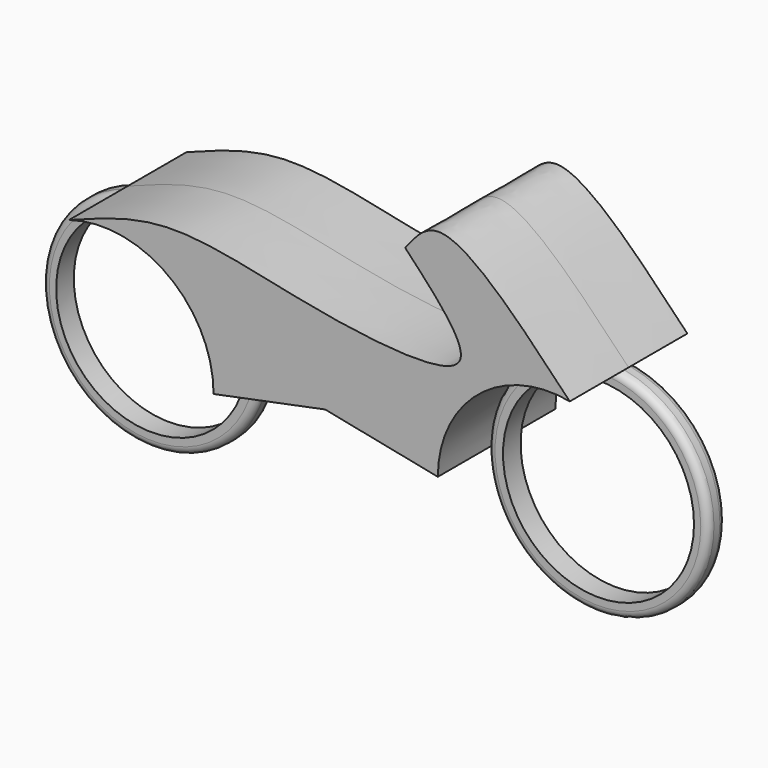
from build123d import *

# Parameters (mm, degrees)
F0_R     = 19.05
F2_DEPTH = 1.905
F1_R     = 16.51
F3_DEPTH = 2.54
F4_R     = 1.27
F4_2_R   = 1.27
F6_DEPTH = 12.7


with BuildPart() as f2:
    # F0 (on Front) → F2 (new body, symmetric)
    with BuildSketch(Plane.XZ):
        with Locations((-38.5182765663, 0)):
            Circle(F0_R)
    extrude(amount=F2_DEPTH, both=True)


with BuildPart() as f2b:
    # F0 (on Front) → F2, piece 2 (new body, symmetric)
    with BuildSketch(Plane.XZ):
        with Locations((38.5182765663, 0)):
            Circle(F0_R)
    extrude(amount=F2_DEPTH, both=True)


with BuildPart() as f3_tool:
    # F1 (on face) → F3 (new body, symmetric)
    with BuildSketch(Plane.XZ):
        with Locations((38.6195555329, 0)):
            Circle(F1_R)
        with Locations((-38.6195555329, 0)):
            Circle(F1_R)
    extrude(amount=F3_DEPTH, both=True)


with BuildPart() as f2_1:
    add(f2.part)

    # F3: cut by f3_tool
    add(f3_tool.part, mode=Mode.SUBTRACT)

    # F4#2
    f4_2_edges = [f2_1.edges().sort_by_distance(p)[0] for p in [
        (-57.568277, 1.905, 0),
        (-19.468277, 0, 0),
        (-57.568277, -1.905, 0),
    ]]
    fillet(f4_2_edges, radius=F4_2_R)


with BuildPart() as f2b_1:
    add(f2b.part)

    # F3: cut by f3_tool
    add(f3_tool.part, mode=Mode.SUBTRACT)

    # F4
    f4_edges = [f2b_1.edges().sort_by_distance(p)[0] for p in [
        (19.468277, 1.905, 0),
        (57.568277, 0, 0),
        (19.468277, -1.905, 0),
    ]]
    fillet(f4_edges, radius=F4_R)

    # F5 (on Front) → F6 (join, symmetric)
    with BuildSketch(Plane.XZ):
        with BuildLine():
            add(Edge.make_bspline(
                [(0, 3.9196209982), (-6.4268043758, 2.6146205321), (-12.8536087516, 1.309620066), (-19.2804131273, 0.0046195999)],
                knots=[0, 0, 0, 0, 19.6738803064, 19.6738803064, 19.6738803064, 19.6738803064], degree=3))
            add(Edge.make_bspline(
                [(0, 3.9196209982), (6.4949218626, 2.6161152738), (12.9898437253, 1.3126095494), (19.4847655879, 0.009103825)],
                knots=[0, 0, 0, 0, 19.8733045711, 19.8733045711, 19.8733045711, 19.8733045711], degree=3))
            ThreePointArc((19.4847655879, 0.009103825), (26.4514170766, 14.8165091154), (42.2970348293, 18.9042814226))
            add(Edge.make_bspline(
                [(42.2970348293, 18.9042814226), (33.5903418059, 28.0510053397), (20.515711515, 41.7725961089), (15.5136982582, 35.2098816799), (13.8429980725, 33.017642796)],
                knots=[0, 0, 0, 0, 0.6660737612, 1, 1, 1, 1], degree=3))
            add(Edge.make_bspline(
                [(-44.2804308585, 18.3542078324), (-38.8384670005, 20.4549004159), (-26.5756975332, 25.1575808274), (-2.6672938705, 17.914753007), (31.1611473272, 14.689593773), (19.3125454437, 27.2292838492), (13.8429980725, 33.017642796)],
                knots=[0, 0, 0, 0, 0.2281019359, 0.5136587523, 0.7754894608, 1, 1, 1, 1], degree=3))
            ThreePointArc((-44.2804308585, 18.3542078324), (-27.1350207702, 15.5084447257), (-19.2804131273, 0.0046195999))
        make_face()
    extrude(amount=F6_DEPTH, both=True)


solid = Compound([f2_1.part, f2b_1.part])
